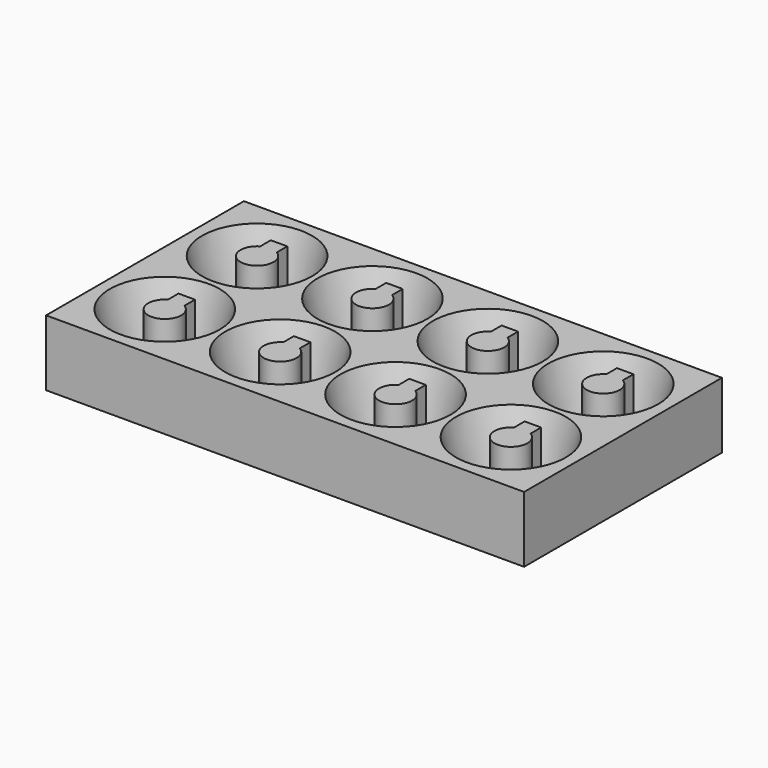
from build123d import *

# Parameters (mm, degrees)
BOX019_W          = 3
BOX019_H          = 3
BOX019_DEPTH      = 10
CYLINDER022_R     = 3
CYLINDER022_DEPTH = 10
BOX020_W          = 87
BOX020_H          = 45
BOX020_DEPTH      = 12


with BuildPart() as cube019:
    # Box019 → Box019 (new body)
    with BuildSketch(Plane(origin=(-1.5, 2, 0), x_dir=(1, 0, 0), z_dir=(0, 0, 1))):
        with Locations((1.5, 1.5)):
            Rectangle(BOX019_W, BOX019_H)
    extrude(amount=BOX019_DEPTH)


with BuildPart() as fusion010:
    # Cylinder022 → Cylinder022 (new body)
    with BuildSketch(Plane.XY):
        Circle(CYLINDER022_R)
    extrude(amount=CYLINDER022_DEPTH)

    # Fusion010: union Cube019
    add(cube019.part)


with BuildPart() as kegel:
    # Cone → Cone (revolve)
    with BuildSketch(Plane.XZ):
        Polygon((0, 0), (7.5, 0), (10, 10), (0, 10), align=None)
    revolve(axis=Axis((0, 0, 0), (0, 0, 1)))


with BuildPart() as cut006:
    # Cut006 base: copy of Kegel
    add(kegel.part)

    # Cut006: cut Fusion010
    add(fusion010.part, mode=Mode.SUBTRACT)


with BuildPart() as cut006_1:
    # Cut006 placement: moved
    add(cut006.part.moved(Location((0, -21, 0))))


with BuildPart() as cut007:
    # Cut007 base: copy of Kegel
    add(kegel.part)

    # Cut007: cut Fusion010
    add(fusion010.part, mode=Mode.SUBTRACT)


with BuildPart() as cut007_1:
    # Cut007 placement: moved
    add(cut007.part.moved(Location((-42, -21, 0))))


with BuildPart() as cut008:
    # Cut008 base: copy of Kegel
    add(kegel.part)

    # Cut008: cut Fusion010
    add(fusion010.part, mode=Mode.SUBTRACT)


with BuildPart() as cut008_1:
    # Cut008 placement: moved
    add(cut008.part.moved(Location((21, 0, 0))))


with BuildPart() as cut009:
    # Cut009 base: copy of Kegel
    add(kegel.part)

    # Cut009: cut Fusion010
    add(fusion010.part, mode=Mode.SUBTRACT)


with BuildPart() as cut009_1:
    # Cut009 placement: moved
    add(cut009.part.moved(Location((-42, 0, 0))))


with BuildPart() as cut010:
    # Cut010 base: copy of Kegel
    add(kegel.part)

    # Cut010: cut Fusion010
    add(fusion010.part, mode=Mode.SUBTRACT)


with BuildPart() as cut011:
    # Cut011 base: copy of Kegel
    add(kegel.part)

    # Cut011: cut Fusion010
    add(fusion010.part, mode=Mode.SUBTRACT)


with BuildPart() as cut011_1:
    # Cut011 placement: moved
    add(cut011.part.moved(Location((-21, -21, 0))))


with BuildPart() as cut012:
    # Cut012 base: copy of Kegel
    add(kegel.part)

    # Cut012: cut Fusion010
    add(fusion010.part, mode=Mode.SUBTRACT)


with BuildPart() as cut012_1:
    # Cut012 placement: moved
    add(cut012.part.moved(Location((-21, 0, 0))))


with BuildPart() as fusion011:
    # Cut005 base: copy of Kegel
    add(kegel.part)

    # Cut005: cut Fusion010
    add(fusion010.part, mode=Mode.SUBTRACT)


with BuildPart() as fusion011_1:
    # Cut005 placement: moved
    add(fusion011.part.moved(Location((21, -21, 0))))

    # Fusion011: union Cut006, Cut007, Cut008, Cut009, Cut010, Cut011, Cut012
    add(cut006_1.part)
    add(cut007_1.part)
    add(cut008_1.part)
    add(cut009_1.part)
    add(cut010.part)
    add(cut011_1.part)
    add(cut012_1.part)


with BuildPart() as obj1:
    # Box020 → Box020 (new body)
    with BuildSketch(Plane(origin=(-54, -33, -2), x_dir=(1, 0, 0), z_dir=(0, 0, 1))):
        with Locations((43.5, 22.5)):
            Rectangle(BOX020_W, BOX020_H)
    extrude(amount=BOX020_DEPTH)

    # Cut013: cut Fusion011
    add(fusion011_1.part, mode=Mode.SUBTRACT)


solid = obj1.part
